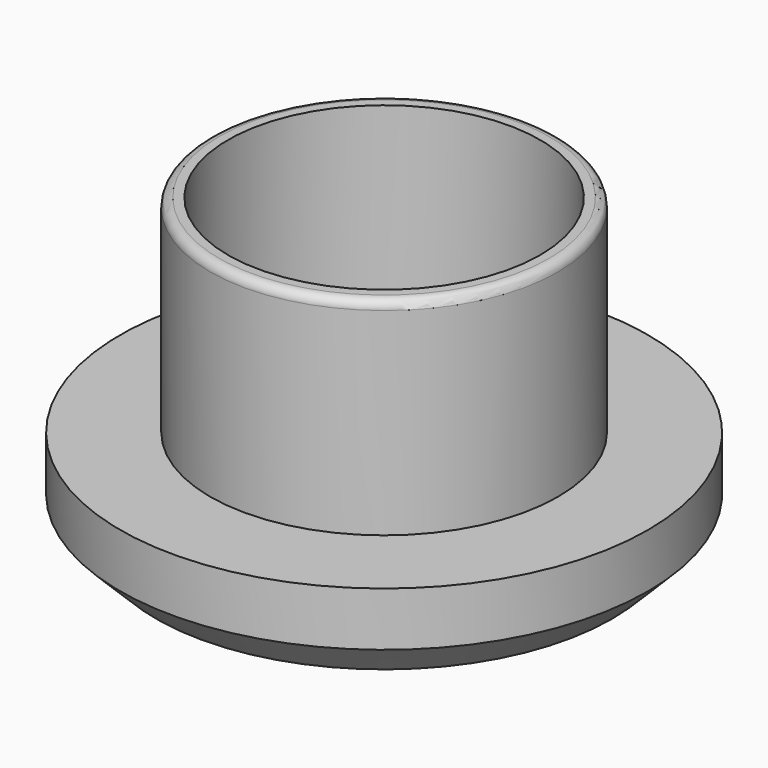
from build123d import *

# Parameters (mm, degrees)
F0_R     = 29.35
F0_R_2   = 19.35
F0_R_3   = 17.35
F1_DEPTH = 10
F2_SIZE  = 4
F3_DEPTH = 33
F4_R     = 1


with BuildPart() as f1:
    # F0 (on Top) → F1 (new body)
    with BuildSketch(Plane.XY):
        Circle(F0_R)
        Circle(F0_R_2, mode=Mode.SUBTRACT)
        Circle(F0_R_2)
        Circle(F0_R_3, mode=Mode.SUBTRACT)
        Circle(F0_R_3)
    extrude(amount=F1_DEPTH)

    # F2
    f2_edges = [f1.edges().sort_by_distance(p)[0] for p in [
        (-29.35, 0, 0),
    ]]
    chamfer(f2_edges, length=F2_SIZE)

    # F0 (on Top) → F3 (join)
    with BuildSketch(Plane.XY):
        Circle(F0_R_2)
        Circle(F0_R_3, mode=Mode.SUBTRACT)
    extrude(amount=F3_DEPTH)

    # F4
    f4_edges = [f1.edges().sort_by_distance(p)[0] for p in [
        (-19.35, 0, 33),
    ]]
    fillet(f4_edges, radius=F4_R)


solid = f1.part
